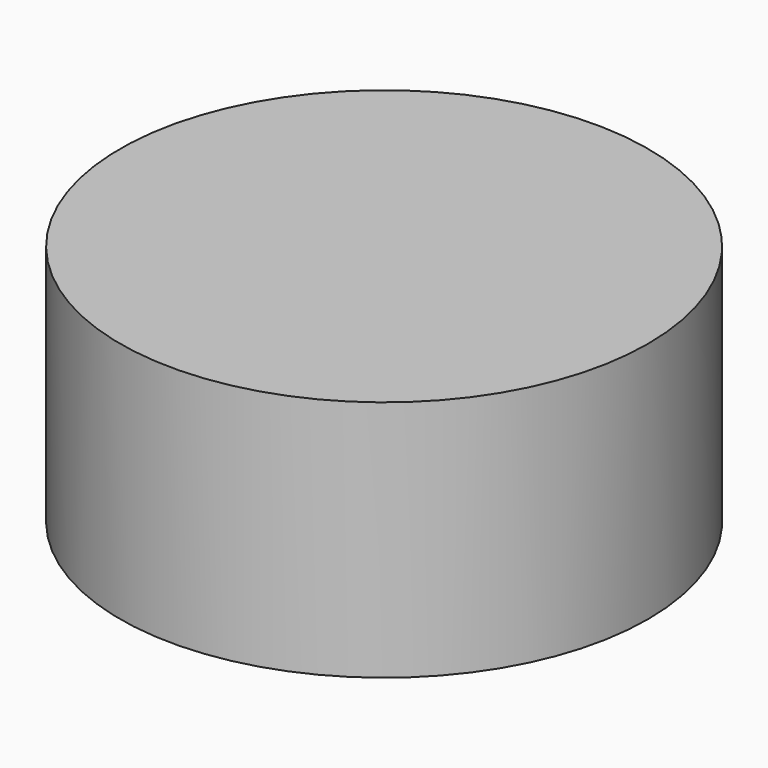
from build123d import *

# Parameters (mm, degrees)
CYLINDER_R     = 16.3322
CYLINDER_DEPTH = 15


with BuildPart() as part:
    # Cylinder → Cylinder (new body)
    with BuildSketch(Plane.XY.offset(-2.5)):
        Circle(CYLINDER_R)
    extrude(amount=CYLINDER_DEPTH)


solid = part.part
